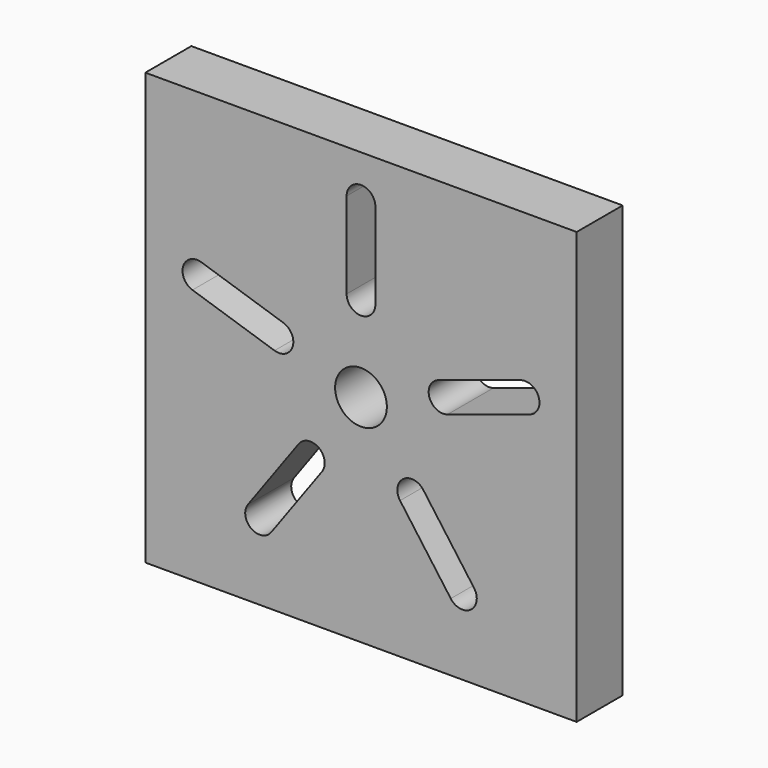
from build123d import *

# Parameters (mm, degrees)
F0_W     = 150
F0_H     = 150
F0_R     = 9
F1_DEPTH = 20


with BuildPart() as f1:
    # F0 (on Front) → F1 (new body)
    with BuildSketch(Plane.XZ):
        Rectangle(F0_W, F0_H)
        with BuildLine():
            ThreePointArc((-31.22203, -51.479946), (-38.206041, -52.586105), (-39.3122, -45.602093))
            Line((-39.3122, -45.602093), (-21.678643, -21.331584))
            ThreePointArc((-21.678643, -21.331584), (-14.694631, -20.225425), (-13.588473, -27.209436))
            Line((-13.588473, -27.209436), (-31.22203, -51.479946))
        make_face(mode=Mode.SUBTRACT)
        with BuildLine():
            ThreePointArc((39.3122, -45.602093), (38.206041, -52.586105), (31.22203, -51.479946))
            Line((31.22203, -51.479946), (13.588473, -27.209436))
            ThreePointArc((13.588473, -27.209436), (14.694631, -20.225425), (21.678643, -21.331584))
            Line((21.678643, -21.331584), (39.3122, -45.602093))
        make_face(mode=Mode.SUBTRACT)
        with BuildLine():
            ThreePointArc((-58.608476, 13.785737), (-61.818674, 20.086105), (-55.518306, 23.296302))
            Line((-55.518306, 23.296302), (-26.986611, 14.025792))
            ThreePointArc((-26.986611, 14.025792), (-23.776413, 7.725425), (-30.07678, 4.515227))
            Line((-30.07678, 4.515227), (-58.608476, 13.785737))
        make_face(mode=Mode.SUBTRACT)
        Circle(F0_R, mode=Mode.SUBTRACT)
        with BuildLine():
            ThreePointArc((55.518306, 23.296302), (61.818674, 20.086105), (58.608476, 13.785737))
            Line((58.608476, 13.785737), (30.07678, 4.515227))
            ThreePointArc((30.07678, 4.515227), (23.776413, 7.725425), (26.986611, 14.025792))
            Line((26.986611, 14.025792), (55.518306, 23.296302))
        make_face(mode=Mode.SUBTRACT)
        with BuildLine():
            Line((-5, 30), (-5, 60))
            ThreePointArc((-5, 60), (0, 65), (5, 60))
            Line((5, 60), (5, 30))
            ThreePointArc((5, 30), (0, 25), (-5, 30))
        make_face(mode=Mode.SUBTRACT)
    extrude(amount=F1_DEPTH)


solid = f1.part
